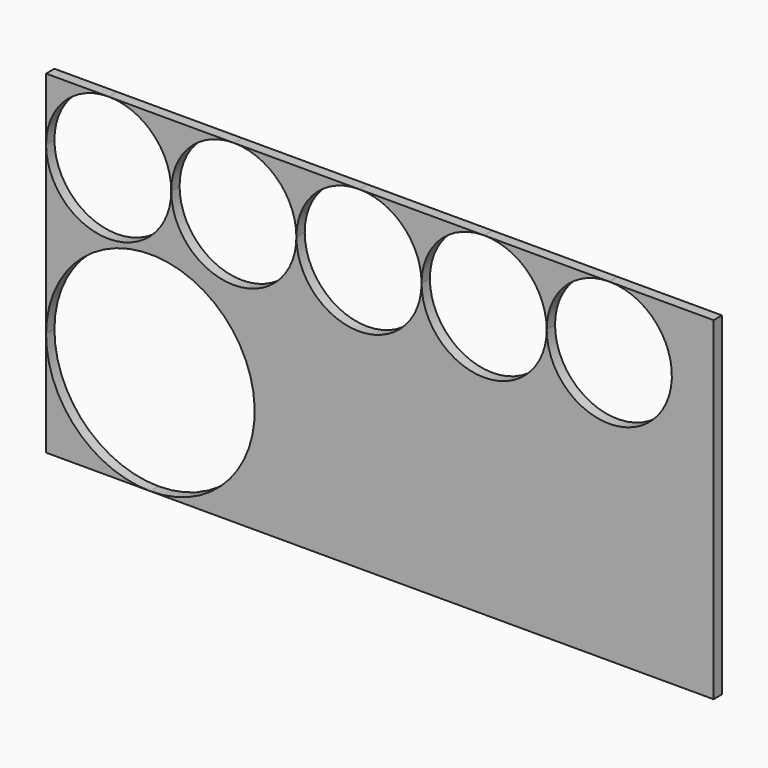
from build123d import *

# Parameters (mm, degrees)
F1_DEPTH = 19.05


with BuildPart() as f1:
    # F0 (on Front) → F1 (new body, symmetric)
    with BuildSketch(Plane.XZ):
        with BuildLine():
            Line((-990.6, 609.6), (-1219.2, 609.6))
            Line((-1219.2, 609.6), (-1219.2, 381))
            ThreePointArc((-1219.2, 381), (-1152.2446101792, 542.6446101792), (-990.6, 609.6))
        make_face()
    extrude(amount=F1_DEPTH, both=True)


with BuildPart() as f1b:
    # F0 (on Front) → F1, piece 2 (new body, symmetric)
    with BuildSketch(Plane.XZ):
        with BuildLine():
            Line((-533.4, 609.6), (-990.6, 609.6))
            ThreePointArc((-990.6, 609.6), (-828.9553898208, 542.6446101792), (-762, 381))
            ThreePointArc((-762, 381), (-695.0446101792, 542.6446101792), (-533.4, 609.6))
        make_face()
    extrude(amount=F1_DEPTH, both=True)


with BuildPart() as f1c:
    # F0 (on Front) → F1, piece 3 (new body, symmetric)
    with BuildSketch(Plane.XZ):
        with BuildLine():
            Line((-76.2, 609.6), (-533.4, 609.6))
            ThreePointArc((-533.4, 609.6), (-371.7553898208, 542.6446101792), (-304.8, 381))
            ThreePointArc((-304.8, 381), (-237.8446101792, 542.6446101792), (-76.2, 609.6))
        make_face()
    extrude(amount=F1_DEPTH, both=True)


with BuildPart() as f1d:
    # F0 (on Front) → F1, piece 4 (new body, symmetric)
    with BuildSketch(Plane.XZ):
        with BuildLine():
            Line((381, 609.6), (-76.2, 609.6))
            ThreePointArc((-76.2, 609.6), (85.4446101792, 542.6446101792), (152.4, 381))
            ThreePointArc((152.4, 381), (219.3553898208, 542.6446101792), (381, 609.6))
        make_face()
    extrude(amount=F1_DEPTH, both=True)


with BuildPart() as f1e:
    # F0 (on Front) → F1, piece 5 (new body, symmetric)
    with BuildSketch(Plane.XZ):
        with BuildLine():
            Line((838.2, 609.6), (381, 609.6))
            ThreePointArc((381, 609.6), (542.6446101792, 542.6446101792), (609.6, 381))
            ThreePointArc((609.6, 381), (676.5553898208, 542.6446101792), (838.2, 609.6))
        make_face()
    extrude(amount=F1_DEPTH, both=True)


with BuildPart() as f1f:
    # F0 (on Front) → F1, piece 6 (new body, symmetric)
    with BuildSketch(Plane.XZ):
        with BuildLine():
            ThreePointArc((-762, 381), (-990.6, 152.4), (-1219.2, 381))
            Line((-1219.2, 381), (-1219.2, -228.6000010031))
            ThreePointArc((-1219.2, -228.6000010031), (-838.2000005016, 152.4), (-457.2, -228.6))
            ThreePointArc((-457.2, -228.6), (-568.7923163679, -498.0076836321), (-838.2, -609.6))
            Line((-838.2, -609.6), (1219.2, -609.6))
            Line((1219.2, -609.6), (1219.2, 609.6))
            Line((1219.2, 609.6), (838.2, 609.6))
            ThreePointArc((838.2, 609.6), (999.8446101792, 542.6446101792), (1066.8, 381))
            ThreePointArc((1066.8, 381), (838.2, 152.4), (609.6, 381))
            ThreePointArc((609.6, 381), (381, 152.4), (152.4, 381))
            ThreePointArc((152.4, 381), (-76.2, 152.4), (-304.8, 381))
            ThreePointArc((-304.8, 381), (-533.4, 152.4), (-762, 381))
        make_face()
    extrude(amount=F1_DEPTH, both=True)


with BuildPart() as f1g:
    # F0 (on Front) → F1, piece 7 (new body, symmetric)
    with BuildSketch(Plane.XZ):
        with BuildLine():
            ThreePointArc((-838.2, -609.6), (-1107.6076832774, -498.0076839867), (-1219.2, -228.6000010031))
            Line((-1219.2, -228.6000010031), (-1219.2, -609.6))
            Line((-1219.2, -609.6), (-838.2, -609.6))
        make_face()
    extrude(amount=F1_DEPTH, both=True)


solid = Compound([f1.part, f1b.part, f1c.part, f1d.part, f1e.part, f1f.part, f1g.part])
